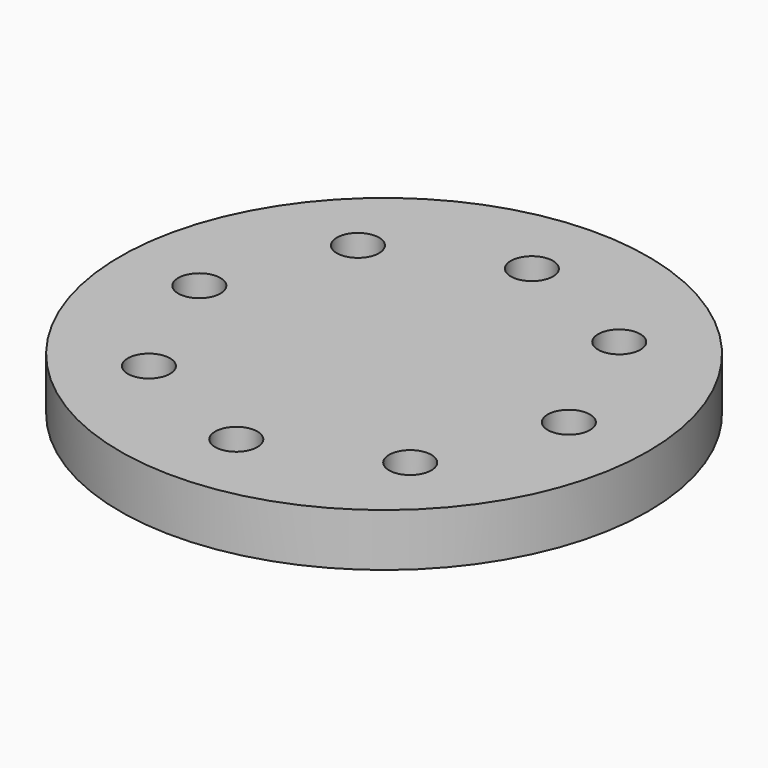
from build123d import *

# Parameters (mm, degrees)
F0_R     = 50
F0_R_2   = 4
F1_DEPTH = 10


with BuildPart() as f1:
    # F0 (on Top) → F1 (new body)
    with BuildSketch(Plane.XY):
        Circle(F0_R)
        with Locations((-24.748737, -24.748737)):
            Circle(F0_R_2, mode=Mode.SUBTRACT)
        with Locations((0, -35)):
            Circle(F0_R_2, mode=Mode.SUBTRACT)
        with Locations((24.748737, -24.748737)):
            Circle(F0_R_2, mode=Mode.SUBTRACT)
        with Locations((-35, 0)):
            Circle(F0_R_2, mode=Mode.SUBTRACT)
        with Locations((-24.748737, 24.748737)):
            Circle(F0_R_2, mode=Mode.SUBTRACT)
        with Locations((24.748737, 24.748737)):
            Circle(F0_R_2, mode=Mode.SUBTRACT)
        with Locations((35, 0)):
            Circle(F0_R_2, mode=Mode.SUBTRACT)
        with Locations((0, 35)):
            Circle(F0_R_2, mode=Mode.SUBTRACT)
    extrude(amount=F1_DEPTH)


solid = f1.part
